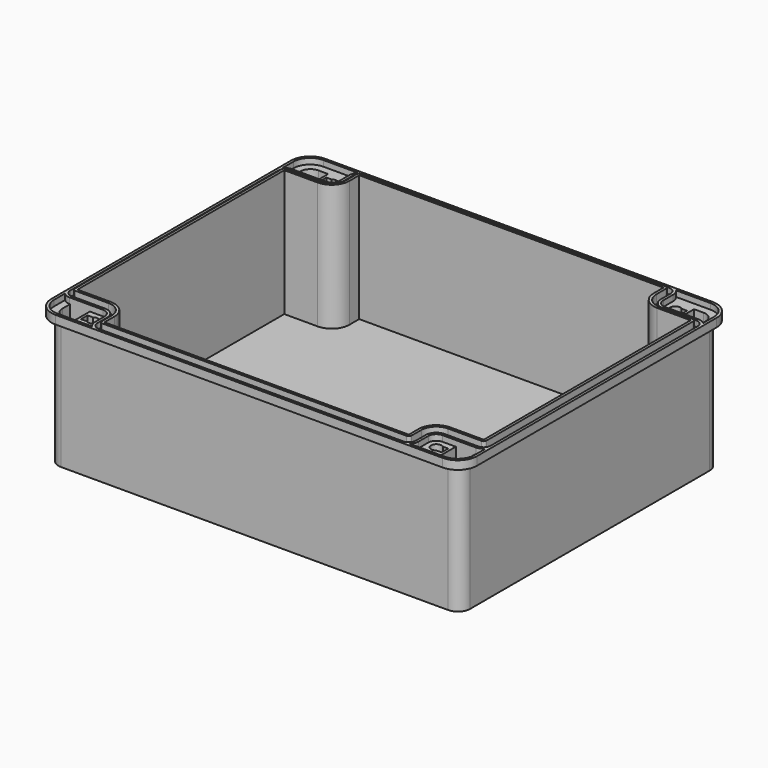
from build123d import *

# Parameters (mm, degrees)
PAD_DEPTH       = 74.5
POCKET_DEPTH    = 67
POCKET001_DEPTH = 70
PAD001_DEPTH    = 5
PAD002_DEPTH    = 3.3


with BuildPart() as part:
    # Sketch → Pad (new body)
    with BuildSketch(Plane.XY):
        with BuildLine():
            ThreePointArc((-110.08, 92), (-114.973179, 89.973179), (-117, 85.08))
            Line((-117, -85.08), (-117, 85.08))
            ThreePointArc((-117, -85.08), (-114.973179, -89.973179), (-110.08, -92))
            Line((110.08, -92), (-110.08, -92))
            ThreePointArc((110.08, -92), (114.973179, -89.973179), (117, -85.08))
            Line((117, 85.08), (117, -85.08))
            ThreePointArc((117, 85.08), (114.973179, 89.973179), (110.08, 92))
            Line((-110.08, 92), (110.08, 92))
        make_face()
    extrude(amount=PAD_DEPTH)

    # Sketch001 (on Face10 of Pad) → Pocket (cut)
    with BuildSketch(Plane.XY.offset(74.5)):
        with BuildLine():
            Line((-115.5, 73.5), (-115.5, -73.5))
            Line((-115.5, -73.5), (-96.5, -73.5))
            ThreePointArc((-86.5, -83.5), (-89.428932, -76.428932), (-96.5, -73.5))
            Line((-86.5, -90.5), (-86.5, -83.5))
            Line((86.5, -90.5), (-86.5, -90.5))
            Line((86.5, -83.5), (86.5, -90.5))
            ThreePointArc((96.5, -73.5), (89.428932, -76.428932), (86.5, -83.5))
            Line((115.5, -73.5), (96.5, -73.5))
            Line((115.5, 73.5), (115.5, -73.5))
            Line((96.5, 73.5), (115.5, 73.5))
            ThreePointArc((86.5, 83.5), (89.428932, 76.428932), (96.5, 73.5))
            Line((86.5, 90.5), (86.5, 83.5))
            Line((-86.5, 90.5), (86.5, 90.5))
            Line((-86.5, 90.5), (-86.5, 83.5))
            ThreePointArc((-96.5, 73.5), (-89.428932, 76.428932), (-86.5, 83.5))
            Line((-115.5, 73.5), (-96.5, 73.5))
        make_face()
    extrude(amount=-POCKET_DEPTH, mode=Mode.SUBTRACT)

    # CopySketch002 → Pocket001 (cut)
    with BuildSketch(Plane.XY.offset(74.5)):
        with BuildLine():
            Line((104, 79), (115.3, 79))
            Line((115.3, 84.5), (115.3, 79))
            ThreePointArc((115.3, 84.5), (113.601219, 88.601219), (109.5, 90.3))
            Line((104, 90.3), (109.5, 90.3))
            Line((104, 90.3), (104, 79))
        make_face()
        with BuildLine():
            ThreePointArc((99.5, 87.2), (94.635194, 84.85), (99.5, 82.5))
            Line((99.5, 82.5), (102.5, 82.5))
            Line((102.5, 87.2), (102.5, 82.5))
            Line((99.5, 87.2), (102.5, 87.2))
        make_face()
        with BuildLine():
            Line((-104, 90.3), (-104, 79))
            Line((-104, 79), (-115.3, 79))
            Line((-115.3, 79), (-115.3, 84.5))
            ThreePointArc((-109.500027, 90.3), (-113.601229, 88.60121), (-115.3, 84.5))
            Line((-104, 90.3), (-109.500027, 90.3))
        make_face()
        with BuildLine():
            Line((-102.5, 82.5), (-102.5, 87.2))
            Line((-102.5, 87.2), (-99.5, 87.2))
            ThreePointArc((-99.5, 82.5), (-94.635194, 84.85), (-99.5, 87.2))
            Line((-102.5, 82.5), (-99.5, 82.5))
        make_face()
        with BuildLine():
            Line((104, -79), (104, -90.3))
            Line((104, -90.3), (109.5, -90.3))
            ThreePointArc((109.5, -90.3), (113.601219, -88.601219), (115.3, -84.5))
            Line((115.3, -79), (115.3, -84.5))
            Line((104, -79), (115.3, -79))
        make_face()
        with BuildLine():
            Line((99.5, -82.5), (102.5, -82.5))
            Line((102.5, -82.5), (102.5, -87.2))
            Line((102.5, -87.2), (99.5, -87.2))
            ThreePointArc((99.5, -82.5), (94.635194, -84.85), (99.5, -87.2))
        make_face()
        with BuildLine():
            Line((-104, -79), (-115.3, -79))
            Line((-115.3, -79), (-115.3, -84.5))
            ThreePointArc((-115.3, -84.5), (-113.601219, -88.601219), (-109.5, -90.3))
            Line((-104, -90.3), (-109.5, -90.3))
            Line((-104, -79), (-104, -90.3))
        make_face()
        with BuildLine():
            Line((-102.5, -82.5), (-102.5, -87.2))
            Line((-102.5, -87.2), (-99.5, -87.2))
            ThreePointArc((-99.5, -87.2), (-94.635194, -84.85), (-99.5, -82.5))
            Line((-102.5, -82.5), (-99.5, -82.5))
        make_face()
    extrude(amount=-POCKET001_DEPTH, mode=Mode.SUBTRACT)

    # AdditivePipe: sweep along a path in Sketch002
    with BuildLine(Plane.XY.offset(74.5)) as additivepipe_path:
        ThreePointArc((-110.08, 92), (-114.973179, 89.973179), (-117, 85.08))
        Line((-117, 85.08), (-117, -85.08))
        ThreePointArc((-117, -85.08), (-114.973179, -89.973179), (-110.08, -92))
        Line((-110.08, -92), (110.08, -92))
        ThreePointArc((110.08, -92), (114.973179, -89.973179), (117, -85.08))
        Line((117, -85.08), (117, 85.08))
        ThreePointArc((117, 85.08), (114.973179, 89.973179), (110.08, 92))
        Line((110.08, 92), (-110.08, 92))
    # Sketch003 → AdditivePipe (sweep)
    with BuildSketch(Plane.XZ):
        Polygon((117, 74.5), (119.5, 74.5), (119.5, 77.8), (121, 77.8), (121, 73), (117, 73), align=None)
    sweep(path=additivepipe_path.line)

    # Sketch004 (on Face44 of AdditivePipe) → Pad001 (join)
    with BuildSketch(Plane.XY.offset(74.5)):
        with BuildLine():
            Line((-117, 73.5), (-117, -73.5))
            ThreePointArc((-117, -73.5), (-116.56066, -74.56066), (-115.5, -75))
            Line((-96.5, -75), (-115.5, -75))
            ThreePointArc((-88, -83.5), (-90.489592, -77.489592), (-96.5, -75))
            Line((-88, -90.5), (-88, -83.5))
            ThreePointArc((-88, -90.5), (-87.56066, -91.56066), (-86.5, -92))
            Line((86.5, -92), (-86.5, -92))
            ThreePointArc((86.5, -92), (87.56066, -91.56066), (88, -90.5))
            Line((88, -83.5), (88, -90.5))
            ThreePointArc((96.5, -75), (90.489592, -77.489592), (88, -83.5))
            Line((115.5, -75), (96.5, -75))
            ThreePointArc((115.5, -75), (116.56066, -74.56066), (117, -73.5))
            Line((117, 73.5), (117, -73.5))
            ThreePointArc((117, 73.5), (116.56066, 74.56066), (115.5, 75))
            Line((96.5, 75), (115.5, 75))
            ThreePointArc((88, 83.5), (90.489592, 77.489592), (96.5, 75))
            Line((88, 90.5), (88, 83.5))
            ThreePointArc((88, 90.5), (87.56066, 91.56066), (86.5, 92))
            Line((-86.5, 92), (86.5, 92))
            ThreePointArc((-86.5, 92), (-87.56066, 91.56066), (-88, 90.5))
            Line((-88, 90.5), (-88, 83.5))
            ThreePointArc((-96.5, 75), (-90.489592, 77.489592), (-88, 83.5))
            Line((-115.5, 75), (-96.5, 75))
            ThreePointArc((-115.5, 75), (-116.56066, 74.56066), (-117, 73.5))
        make_face()
        with BuildLine():
            Line((-115.5, 73.5), (-115.5, -73.5))
            Line((-115.5, -73.5), (-96.5, -73.5))
            ThreePointArc((-86.5, -83.5), (-89.428932, -76.428932), (-96.5, -73.5))
            Line((-86.5, -90.5), (-86.5, -83.5))
            Line((86.5, -90.5), (-86.5, -90.5))
            Line((86.5, -83.5), (86.5, -90.5))
            ThreePointArc((96.5, -73.5), (89.428932, -76.428932), (86.5, -83.5))
            Line((115.5, -73.5), (96.5, -73.5))
            Line((115.5, 73.5), (115.5, -73.5))
            Line((96.5, 73.5), (115.5, 73.5))
            ThreePointArc((86.5, 83.5), (89.428932, 76.428932), (96.5, 73.5))
            Line((86.5, 90.5), (86.5, 83.5))
            Line((-86.5, 90.5), (86.5, 90.5))
            Line((-86.5, 90.5), (-86.5, 83.5))
            ThreePointArc((-96.5, 73.5), (-89.428932, 76.428932), (-86.5, 83.5))
            Line((-115.5, 73.5), (-96.5, 73.5))
        make_face(mode=Mode.SUBTRACT)
    extrude(amount=PAD001_DEPTH)

    # Sketch005 → Pad002 (join)
    with BuildSketch(Plane.XY.offset(74.5)):
        with BuildLine():
            Line((96.5, 79), (115.5, 79))
            ThreePointArc((119.5, 77.274917), (117.678067, 78.550349), (115.5, 79))
            Line((119.5, 73.5), (119.5, 77.274917))
            ThreePointArc((119.5, 73.5), (118.328427, 76.328427), (115.5, 77.5))
            Line((96.5, 77.5), (115.5, 77.5))
            ThreePointArc((90.5, 83.5), (92.257359, 79.257359), (96.5, 77.5))
            Line((90.5, 90.5), (90.5, 83.5))
            ThreePointArc((90.5, 90.5), (89.328427, 93.328427), (86.5, 94.5))
            Line((86.5, 94.5), (90.274917, 94.5))
            ThreePointArc((92, 90.5), (91.550349, 92.678067), (90.274917, 94.5))
            Line((92, 90.5), (92, 83.5))
            ThreePointArc((92, 83.5), (93.318019, 80.318019), (96.5, 79))
        make_face()
        with BuildLine():
            Line((96.5, -77.5), (115.5, -77.5))
            ThreePointArc((115.5, -77.5), (118.328433, -76.328421), (119.5, -73.499983))
            Line((119.5, -73.499983), (119.5, -77.274917))
            ThreePointArc((115.5, -79), (117.678067, -78.550349), (119.5, -77.274917))
            Line((96.5, -79), (115.5, -79))
            ThreePointArc((96.5, -79), (93.318019, -80.318019), (92, -83.5))
            Line((92, -83.5), (92, -90.5))
            ThreePointArc((90.274917, -94.5), (91.550349, -92.678067), (92, -90.5))
            Line((86.5, -94.5), (90.274917, -94.5))
            ThreePointArc((86.5, -94.5), (89.328427, -93.328427), (90.5, -90.5))
            Line((90.5, -83.5), (90.5, -90.5))
            ThreePointArc((96.5, -77.5), (92.257359, -79.257359), (90.5, -83.5))
        make_face()
        with BuildLine():
            Line((-119.5, -73.499983), (-119.5, -77.274917))
            ThreePointArc((-119.5, -77.274917), (-117.678067, -78.550349), (-115.5, -79))
            Line((-115.5, -79), (-96.5, -79))
            ThreePointArc((-92, -83.5), (-93.318019, -80.318019), (-96.5, -79))
            Line((-92, -83.5), (-92, -90.5))
            ThreePointArc((-92, -90.5), (-91.550349, -92.678067), (-90.274917, -94.5))
            Line((-90.274917, -94.5), (-86.5, -94.5))
            ThreePointArc((-90.5, -90.5), (-89.328427, -93.328427), (-86.5, -94.5))
            Line((-90.5, -83.5), (-90.5, -90.5))
            ThreePointArc((-90.5, -83.5), (-92.257359, -79.257359), (-96.5, -77.5))
            Line((-115.5, -77.5), (-96.5, -77.5))
            ThreePointArc((-119.5, -73.499983), (-118.328433, -76.328421), (-115.5, -77.5))
        make_face()
        with BuildLine():
            Line((-119.5, 77.274917), (-119.5, 73.5))
            ThreePointArc((-115.5, 77.5), (-118.328427, 76.328427), (-119.5, 73.5))
            Line((-115.5, 77.5), (-96.5, 77.5))
            ThreePointArc((-96.5, 77.5), (-92.257359, 79.257359), (-90.5, 83.5))
            Line((-90.5, 90.5), (-90.5, 83.5))
            ThreePointArc((-86.5, 94.5), (-89.328427, 93.328427), (-90.5, 90.5))
            Line((-90.274917, 94.5), (-86.5, 94.5))
            ThreePointArc((-90.274917, 94.5), (-91.550349, 92.678067), (-92, 90.5))
            Line((-92, 90.5), (-92, 83.5))
            ThreePointArc((-96.5, 79), (-93.318019, 80.318019), (-92, 83.5))
            Line((-115.5, 79), (-96.5, 79))
            ThreePointArc((-115.5, 79), (-117.678067, 78.550349), (-119.5, 77.274917))
        make_face()
    extrude(amount=PAD002_DEPTH)


solid = part.part
